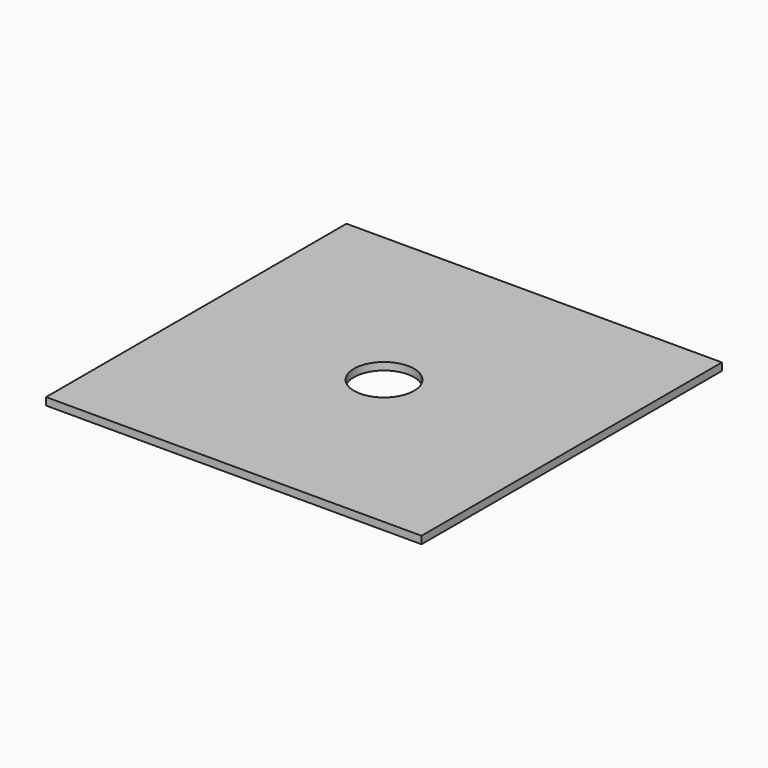
from build123d import *

# Parameters (mm, degrees)
F0_W     = 127
F0_H     = 127
F1_DEPTH = 2.54
F3_D     = 20.32


with BuildPart() as f1:
    # F0 (on Top) → F1 (new body)
    with BuildSketch(Plane.XY):
        with Locations((21.668797, 23.006538)):
            Rectangle(F0_W, F0_H)
        with Locations((21.668797, 23.006538)):
            Rectangle(F0_W, F0_H)
    extrude(amount=F1_DEPTH)

    # F3 (through all)
    with Locations(Plane.XY.offset(2.54)):
        with Locations((21.668797, 23.006538)):
            Hole(F3_D / 2)


solid = f1.part
